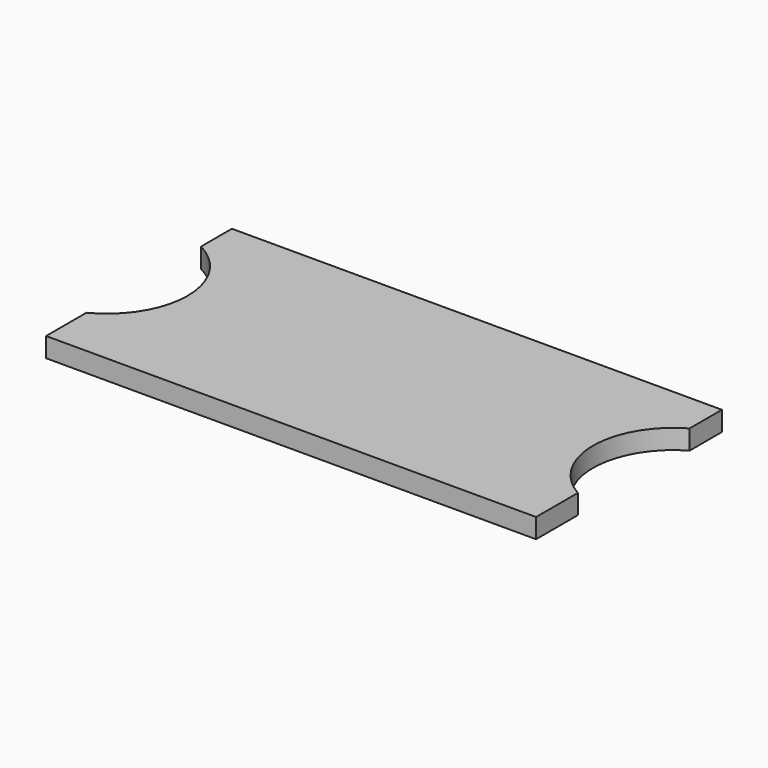
from build123d import *

# Parameters (mm, degrees)
F1_DEPTH = 2
F2_DEPTH = 2


with BuildPart() as f1:
    # F0 (on Top) → F1 (new body)
    with BuildSketch(Plane.XY):
        with BuildLine():
            Line((-50, -23.7), (50, -23.7))
            Line((50, -23.7), (50, -13.0600841512))
            ThreePointArc((50, -13.0600841512), (41.7, 1.2), (50, 15.4600841512))
            Line((50, 15.4600841512), (50, 23.7))
            Line((50, 23.7), (-50, 23.7))
            Line((-50, 23.7), (-50, 15.8101848038))
            ThreePointArc((-50, 15.8101848038), (-41.05, 1.2), (-50, -13.4101848038))
            Line((-50, -13.4101848038), (-50, -23.7))
        make_face()
    extrude(amount=F1_DEPTH)

    # F2 (add): a face of the model
    f2_faces = [f1.faces().sort_by_distance(p)[0] for p in [
        (0.1877216018, -0.0971034316, 2),
    ]]
    extrude(f2_faces, amount=F2_DEPTH)


solid = f1.part
